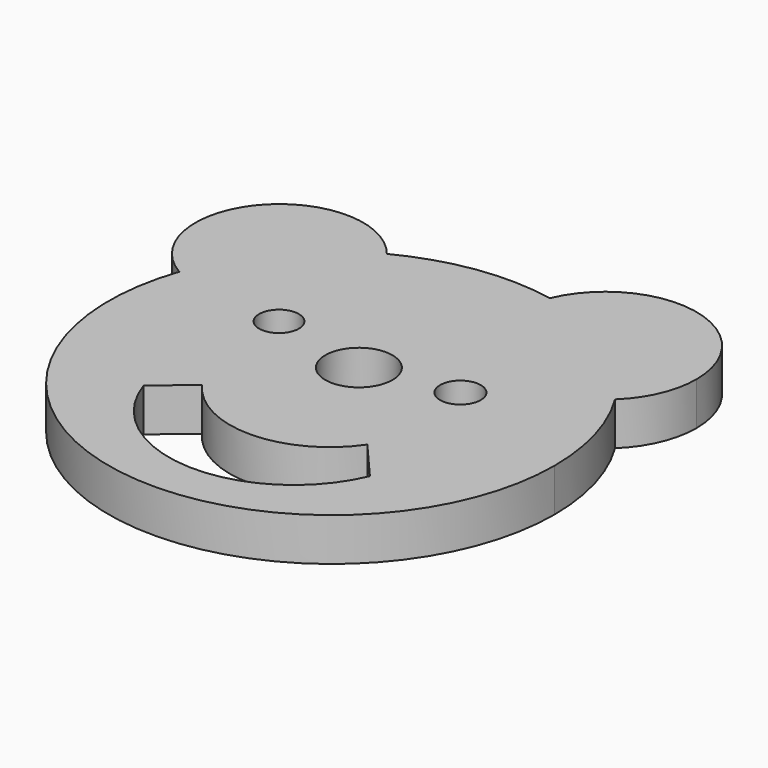
from build123d import *

# Parameters (mm, degrees)
F0_R     = 2.9315059489
F0_R_2   = 4.9577082706
F0_R_3   = 3.0008121714
F1_DEPTH = 6.35


with BuildPart() as f1:
    # F0 (on Top) → F1 (new body)
    with BuildSketch(Plane.XY):
        with BuildLine():
            ThreePointArc((-31.111174148, 10.771264197), (-5.4612938069, -32.4668994396), (32.9230206583, 0))
            ThreePointArc((32.9230206583, 0), (31.6741105539, 8.9819825144), (28.0221331774, 17.282515484))
            ThreePointArc((28.0221331774, 17.282515484), (11.0885388977, 15.9908350993), (6.3616782796, 32.3025438431))
            ThreePointArc((6.3616782796, 32.3025438431), (-4.6856163495, 32.5878856125), (-15.2049900361, 29.2016021353))
            ThreePointArc((-15.2049900361, 29.2016021353), (-13.2179182524, 25.5820794163), (-12.5301148045, 21.510676046))
            ThreePointArc((-12.5301148045, 21.510676046), (-18.7221234211, 10.7799871913), (-31.111174148, 10.771264197))
        make_face()
        with BuildLine():
            ThreePointArc((17.930932343, -15.3499655426), (0.2098643008, -26.5919373772), (-16.5725294501, -13.9915626496))
            Line((-16.5725294501, -13.9915626496), (-11.4105949178, -9.6446694806))
            ThreePointArc((-11.4105949178, -9.6446694806), (0.750091805, -15.8180913269), (12.7689968795, -9.3729877844))
            Line((12.7689968795, -9.3729877844), (17.930932343, -15.3499655426))
        make_face(mode=Mode.SUBTRACT)
        with Locations((-14.3990833312, 8.286264725)):
            Circle(F0_R, mode=Mode.SUBTRACT)
        with Locations((0, 5.0260950811)):
            Circle(F0_R_2, mode=Mode.SUBTRACT)
        with Locations((13.0406813696, 7.4712228961)):
            Circle(F0_R_3, mode=Mode.SUBTRACT)
        with BuildLine():
            ThreePointArc((6.3616782796, 32.3025438431), (11.0885388977, 15.9908350993), (28.0221331774, 17.282515484))
            ThreePointArc((28.0221331774, 17.282515484), (18.760648591, 27.0548212656), (6.3616782796, 32.3025438431))
        make_face()
        with BuildLine():
            ThreePointArc((6.3616782796, 32.3025438431), (18.760648591, 27.0548212656), (28.0221331774, 17.282515484))
            ThreePointArc((28.0221331774, 17.282515484), (31.1293093852, 21.7360538154), (32.2244168983, 27.0548212656))
            ThreePointArc((32.2244168983, 27.0548212656), (21.4379787454, 40.2497051331), (6.3616782796, 32.3025438431))
        make_face()
        with BuildLine():
            ThreePointArc((-15.2049900361, 29.2016021353), (-34.3070925434, 29.6085146222), (-31.111174148, 10.771264197))
            ThreePointArc((-31.111174148, 10.771264197), (-24.9242072153, 21.510676046), (-15.2049900361, 29.2016021353))
        make_face()
        with BuildLine():
            ThreePointArc((-15.2049900361, 29.2016021353), (-24.9242072153, 21.510676046), (-31.111174148, 10.771264197))
            ThreePointArc((-31.111174148, 10.771264197), (-18.7221234211, 10.7799871913), (-12.5301148045, 21.510676046))
            ThreePointArc((-12.5301148045, 21.510676046), (-13.2179182524, 25.5820794163), (-15.2049900361, 29.2016021353))
        make_face()
    extrude(amount=F1_DEPTH)


solid = f1.part
